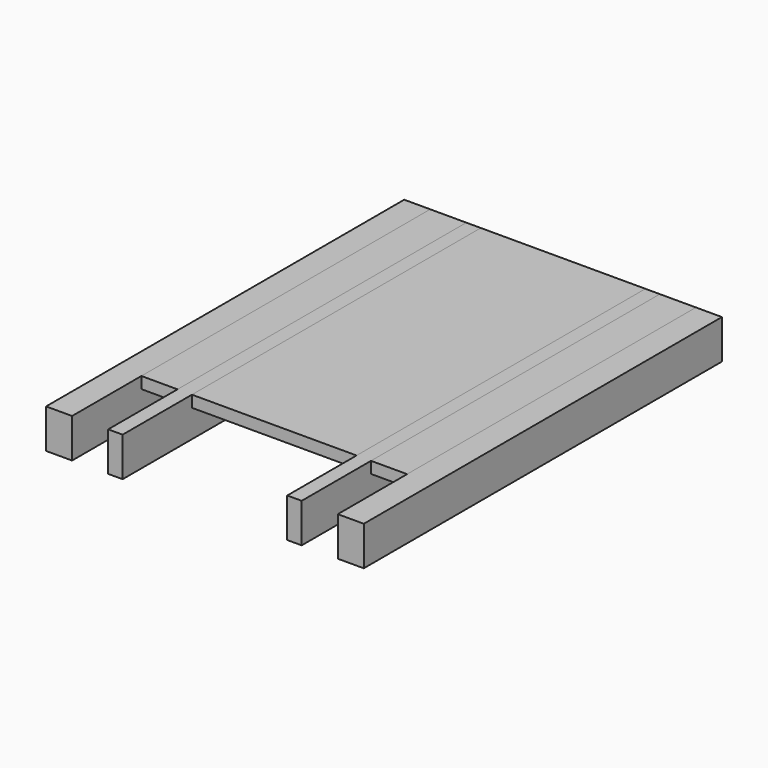
from build123d import *

# Parameters (mm, degrees)
F1_DEPTH = 310
F0_W     = 114
F0_H     = 8
F2_DEPTH = 250
F3_DEPTH = 310
F0_W_2   = 25
F4_DEPTH = 250


with BuildPart() as f1:
    # F0 (on Front) → F1 (new body)
    with BuildSketch(Plane.XZ):
        Polygon((150.983323, 8), (132.983323, 8), (132.983323, 0), (132.983323, -19.15983), (150.983323, -19.15983), (150.983323, 3.84017), align=None)
        Polygon((-69.016677, -19.15983), (-51.016677, -19.15983), (-51.016677, 0), (-51.016677, 8), (-69.016677, 8), (-69.016677, 3.84017), align=None)
    extrude(amount=F1_DEPTH)


with BuildPart() as f2:
    # F0 (on Front) → F2 (new body)
    with BuildSketch(Plane.XZ):
        with Locations((40.983323, 4)):
            Rectangle(F0_W, F0_H)
    extrude(amount=F2_DEPTH)

    # F0 (on Front) → F3 (join)
    with BuildSketch(Plane.XZ):
        Polygon((-26.016677, 8), (-26.016677, 0), (-26.016677, -19.15983), (-16.016677, -19.15983), (-16.016677, 0), (-16.016677, 8), align=None)
        Polygon((107.983323, 8), (97.983323, 8), (97.983323, 0), (97.983323, -19.15983), (107.983323, -19.15983), (107.983323, 0), align=None)
    extrude(amount=F3_DEPTH)


with BuildPart() as f4:
    # F0 (on Front) → F4 (new body)
    with BuildSketch(Plane.XZ):
        with Locations((-38.516677, 4)):
            Rectangle(F0_W_2, F0_H)
        with Locations((120.483323, 4)):
            Rectangle(F0_W_2, F0_H)
        with Locations((40.983323, 4)):
            Rectangle(F0_W, F0_H)
    extrude(amount=F4_DEPTH)


solid = Compound([f1.part, f2.part, f4.part])
